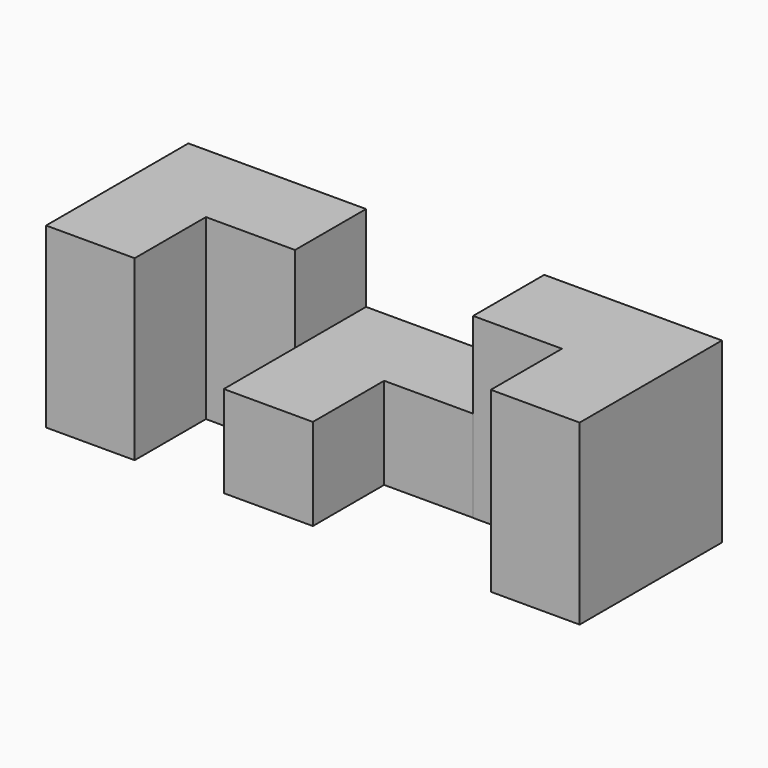
from build123d import *

# Parameters (mm, degrees)
F0_W     = 76.2
F0_H     = 25.4
F1_DEPTH = 25.4
F2_W     = 25.4508
F2_H     = 12.7254
F3_DEPTH = 25.4
F4_W     = 12.7254
F4_H     = 12.7254
F5_DEPTH = 25.654
F6_W     = 12.6873
F6_H     = 12.7
F7_DEPTH = 25.654
F9_DEPTH = 25.4


with BuildPart() as f1:
    # F0 (on Top) → F1 (new body)
    with BuildSketch(Plane.XY):
        with Locations((38.1, 12.7)):
            Rectangle(F0_W, F0_H)
    extrude(amount=F1_DEPTH)

    # F2 (on Front) → F3 (cut)
    with BuildSketch(Plane.XZ):
        with Locations((38.1, 19.4584317505)):
            Rectangle(F2_W, F2_H)
    extrude(amount=-F3_DEPTH, mode=Mode.SUBTRACT)

    # F4 (on face) → F5 (cut)
    with BuildSketch(Plane.XY.offset(25.4)):
        with Locations((19.0119, 6.3627)):
            Rectangle(F4_W, F4_H)
    extrude(amount=-F5_DEPTH, mode=Mode.SUBTRACT)

    # F6 (on face) → F7 (cut)
    with BuildSketch(Plane.XY.offset(25.4)):
        with Locations((57.16905, 6.35)):
            Rectangle(F6_W, F6_H)
    extrude(amount=-F7_DEPTH, mode=Mode.SUBTRACT)

    # F8 (on face) → F9 (cut)
    with BuildSketch(Plane.XY.offset(13.0957317505)):
        Polygon((38.1, 0), (50.8254, 0), (50.8254, 12.7), (50.8254, 12.7254), (38.1, 12.7254), align=None)
    extrude(amount=-F9_DEPTH, mode=Mode.SUBTRACT)


solid = f1.part
